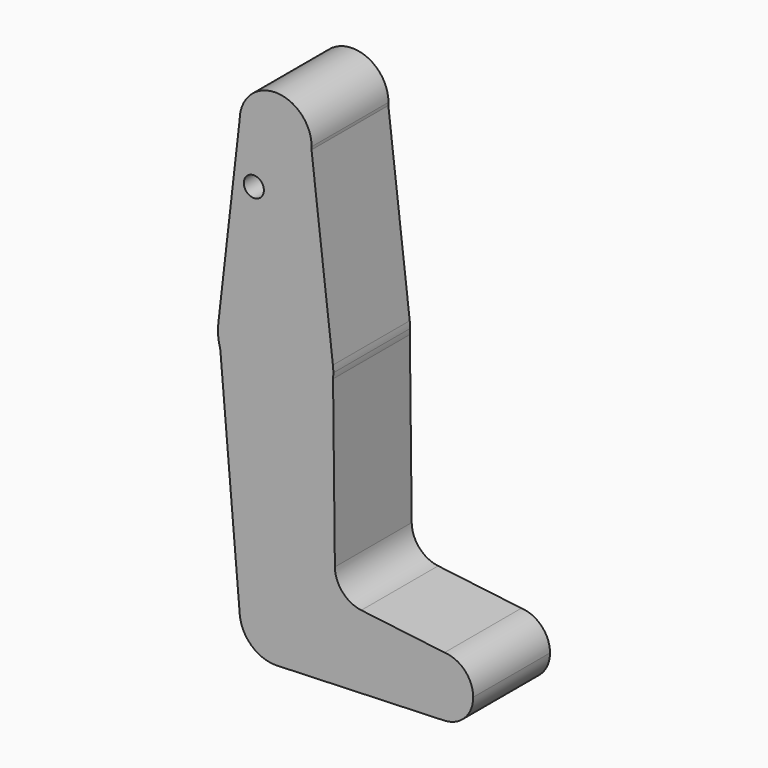
from build123d import *

# Parameters (mm, degrees)
F0_R     = 2.6547036895
F1_DEPTH = 25.4


with BuildPart() as f1:
    # F0 (on Front) → F1 (new body)
    with BuildSketch(Plane.XZ):
        with BuildLine():
            ThreePointArc((9.4946955149, 44.8328407543), (9.5174208633, 45.2121376195), (9.525, 45.5920390674))
            ThreePointArc((9.525, 45.5920390674), (0.0326085199, 55.1169832501), (-9.5247767316, 45.6572557251))
            ThreePointArc((-9.5247767316, 45.6572557251), (-0.4124817946, 36.0759745568), (9.4946955149, 44.8328407543))
        make_face()
        with BuildLine():
            ThreePointArc((9.4946955149, 44.8328407543), (-0.4124817946, 36.0759745568), (-9.5247767316, 45.6572557251))
            Line((-9.5247767316, 45.6572557251), (-15.1561046291, -3.4706806579))
            ThreePointArc((-15.1561046291, -3.4706806579), (-0.0194195769, 10.0473749588), (15.1516325074, -3.4320998338))
            Line((15.1516325074, -3.4320998338), (9.4946955149, 44.8328407543))
        make_face()
        with Locations((-5.765743088, 31.3172390674)):
            Circle(F0_R, mode=Mode.SUBTRACT)
        with BuildLine():
            Line((-14.6388103386, -9.5010812604), (-15.1561046291, -3.4706806579))
            ThreePointArc((-15.1561046291, -3.4706806579), (-15.1995286881, -6.511792954), (-14.6388103386, -9.5010812604))
        make_face()
        with BuildLine():
            ThreePointArc((15.1516325074, -3.4320998338), (-0.0194195769, 10.0473749588), (-15.1561046291, -3.4706806579))
            Line((-15.1561046291, -3.4706806579), (-14.6388103386, -9.5010812604))
            ThreePointArc((-14.6388103386, -9.5010812604), (1.4533479408, -20.3939225433), (15.1873606229, -6.6466157178))
            Line((15.1873606229, -6.6466157178), (15.1516325074, -3.4320998338))
        make_face()
        with BuildLine():
            ThreePointArc((15.2553482517, -5.2079609326), (15.2293972429, -4.3185173428), (15.1516325074, -3.4320998338))
            Line((15.1516325074, -3.4320998338), (15.1873606229, -6.6466157178))
            ThreePointArc((15.1873606229, -6.6466157178), (15.2383418653, -5.9280911133), (15.2553482517, -5.2079609326))
        make_face()
        with BuildLine():
            ThreePointArc((15.1873606229, -6.6466157178), (1.4533479408, -20.3939225433), (-14.6388103386, -9.5010812604))
            Line((-14.6388103386, -9.5010812604), (-9.4901478724, -69.5220360883))
            ThreePointArc((-9.4901478724, -69.5220360883), (-0.4074104288, -59.1916779533), (9.525, -68.7079609326))
            Line((9.525, -68.7079609326), (36.3866372705, -68.7079609326))
            ThreePointArc((36.3866372705, -68.7079609326), (38.8387031703, -62.9708955693), (44.6799081952, -60.7784380403))
            Line((44.6799081952, -60.7784380403), (22.6570500518, -58.0853403191))
            ThreePointArc((22.6570500518, -58.0853403191), (17.698382692, -55.496348174), (15.6723543922, -50.2822833833))
            Line((15.6723543922, -50.2822833833), (15.1873606229, -6.6466157178))
        make_face()
        with BuildLine():
            ThreePointArc((9.525, -68.7079609326), (-0.4074104288, -59.1916779533), (-9.4901478724, -69.5220360883))
            ThreePointArc((-9.4901478724, -69.5220360883), (-6.4409455494, -75.7250718359), (0, -78.2329609326))
            Line((0, -78.2329609326), (0.6792498782, -78.208710619))
            ThreePointArc((0.6792498782, -78.208710619), (6.971207933, -75.1985606703), (9.525, -68.7079609326))
        make_face()
        with BuildLine():
            Line((36.3866372705, -68.7079609326), (9.525, -68.7079609326))
            ThreePointArc((9.525, -68.7079609326), (6.971207933, -75.1985606703), (0.6792498782, -78.208710619))
            Line((0.6792498782, -78.208710619), (44.6073383654, -76.6404071751))
            ThreePointArc((44.6073383654, -76.6404071751), (38.8125133011, -74.4198701993), (36.3866372705, -68.7079609326))
        make_face()
        with BuildLine():
            Line((0.6792498782, -78.208710619), (0, -78.2329609326))
            ThreePointArc((0, -78.2329609326), (0.339841314, -78.2268964236), (0.6792498782, -78.208710619))
        make_face()
        with BuildLine():
            ThreePointArc((44.6799081952, -60.7784380403), (38.8387031703, -62.9708955693), (36.3866372705, -68.7079609326))
            ThreePointArc((36.3866372705, -68.7079609326), (38.8125133011, -74.4198701993), (44.6073383654, -76.6404071751))
            ThreePointArc((44.6073383654, -76.6404071751), (50.0360465371, -74.2195849019), (52.2616372705, -68.7079609326))
            ThreePointArc((52.2616372705, -68.7079609326), (50.0612026337, -63.2225268324), (44.6799081952, -60.7784380403))
        make_face()
    extrude(amount=F1_DEPTH)


solid = f1.part
